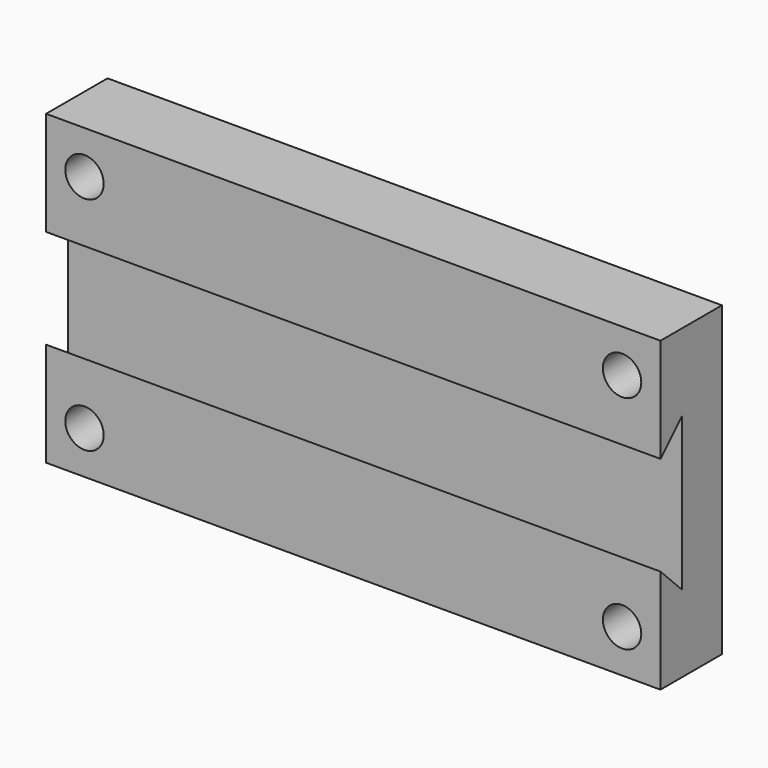
from build123d import *

# Parameters (mm, degrees)
F0_W           = 101.6
F0_H           = 50.8
F1_DEPTH       = 12.7
F3_D           = 3.175
F3_CBORE_D     = 6.35
F3_CBORE_DEPTH = 6.35
F5_DEPTH       = 101.601
F6_D           = 3.175
F6_CBORE_D     = 6.35
F6_CBORE_DEPTH = 6.35
F7_D           = 3.175
F7_CBORE_D     = 6.35
F7_CBORE_DEPTH = 6.35
F8_D           = 3.175
F8_CBORE_D     = 6.35
F8_CBORE_DEPTH = 6.35


with BuildPart() as f1:
    # F0 (on Front) → F1 (new body)
    with BuildSketch(Plane.XZ):
        with Locations((50.8, 25.4)):
            Rectangle(F0_W, F0_H)
    extrude(amount=F1_DEPTH)

    # F3 (through all)
    with Locations(Plane.XZ.offset(12.7)):
        with Locations((6.35, 7.101479)):
            CounterBoreHole(F3_D / 2, F3_CBORE_D / 2, F3_CBORE_DEPTH)

    # F4 (on face) → F5 (cut, through all)
    with BuildSketch(Plane(origin=(0, 0, 0), x_dir=(0, -1, 0), z_dir=(-1, 0, 0))):
        Polygon((12.7, 33.6042), (8.2042, 38.1), (8.2042, 12.7), (12.7, 17.1958), align=None)
    extrude(amount=-F5_DEPTH, mode=Mode.SUBTRACT)

    # F6 (through all)
    with Locations(Plane.XZ.offset(12.7)):
        with Locations((6.35, 43.698521)):
            CounterBoreHole(F6_D / 2, F6_CBORE_D / 2, F6_CBORE_DEPTH)

    # F7 (through all)
    with Locations(Plane.XZ.offset(12.7)):
        with Locations((95.25, 43.698521)):
            CounterBoreHole(F7_D / 2, F7_CBORE_D / 2, F7_CBORE_DEPTH)

    # F8 (through all)
    with Locations(Plane.XZ.offset(12.7)):
        with Locations((95.25, 7.101479)):
            CounterBoreHole(F8_D / 2, F8_CBORE_D / 2, F8_CBORE_DEPTH)


solid = f1.part
